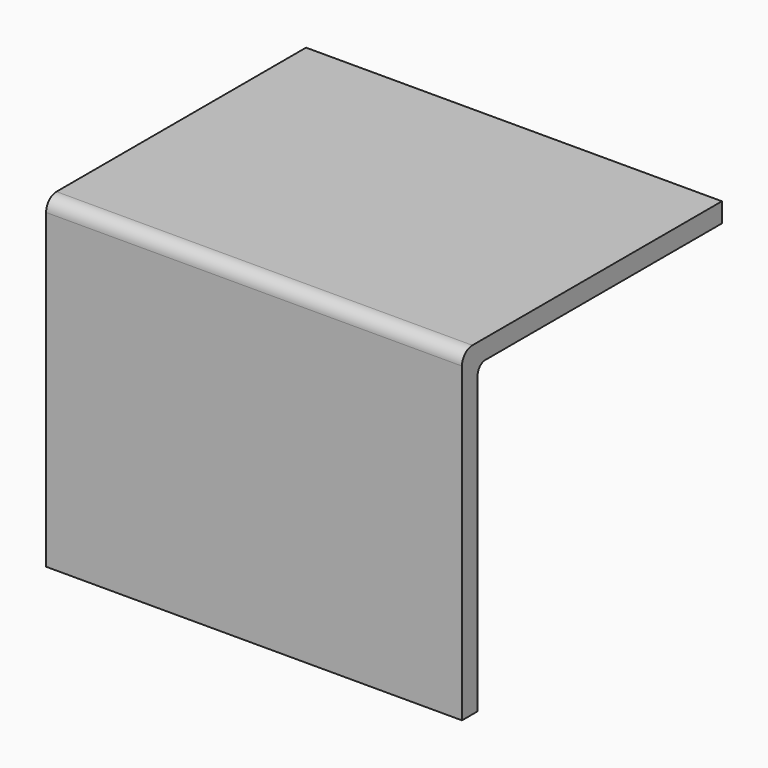
from build123d import *

# Parameters (mm, degrees)
F1_DEPTH = 101.6
F2_R     = 3.175
F3_R     = 2.413


with BuildPart() as f1:
    # F0 (on Right) → F1 (new body)
    with BuildSketch(Plane.YZ):
        Polygon((79.375, 0), (0, 0), (0, -79.375), (4.7625, -79.375), (4.7625, -4.7625), (79.375, -4.7625), align=None)
    extrude(amount=F1_DEPTH)

    # F2
    f2_edges = [f1.edges().sort_by_distance(p)[0] for p in [
        (50.8, 0, 0),
    ]]
    fillet(f2_edges, radius=F2_R)

    # F3
    f3_edges = [f1.edges().sort_by_distance(p)[0] for p in [
        (50.8, 4.7625, -4.7625),
    ]]
    fillet(f3_edges, radius=F3_R)


solid = f1.part
